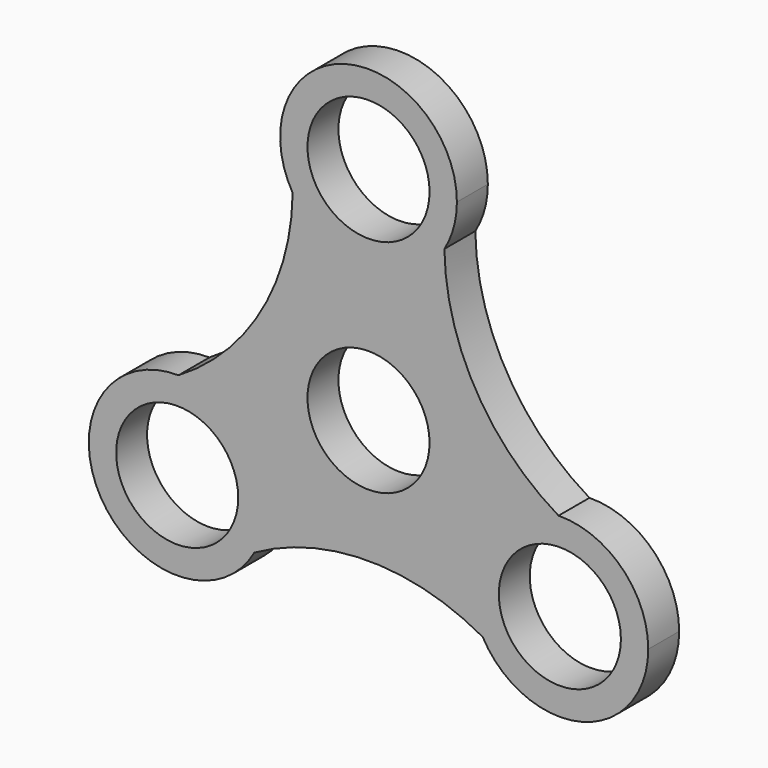
from build123d import *

# Parameters (mm, degrees)
F0_R     = 11.05
F1_DEPTH = 7


with BuildPart() as f1:
    # F0 (on Front) → F1 (new body)
    with BuildSketch(Plane.XZ):
        with BuildLine():
            ThreePointArc((-18.641016, -20), (-23.243086, -8.771145), (-34.401914, -4.001787))
            ThreePointArc((-34.401914, -4.001787), (-48.497423, -28), (-20.666606, -27.792039))
            ThreePointArc((-20.666606, -27.792039), (-19.155691, -24.025509), (-18.641016, -20))
        make_face()
        with Locations((-34.641016, -20)):
            Circle(F0_R, mode=Mode.SUBTRACT)
        with BuildLine():
            ThreePointArc((13.735308, 31.793825), (0, 24), (-13.735308, 31.793825))
            ThreePointArc((-13.735308, 31.793825), (-19.391728, 11.195819), (-34.401914, -4.001787))
            ThreePointArc((-34.401914, -4.001787), (-23.243086, -8.771145), (-18.641016, -20))
            ThreePointArc((-18.641016, -20), (-19.155691, -24.025509), (-20.666606, -27.792039))
            ThreePointArc((-20.666606, -27.792039), (0, -22.391639), (20.666606, -27.792039))
            ThreePointArc((20.666606, -27.792039), (20.78461, -12), (34.401914, -4.001787))
            ThreePointArc((34.401914, -4.001787), (19.391728, 11.195819), (13.735308, 31.793825))
        make_face()
        Circle(F0_R, mode=Mode.SUBTRACT)
        with BuildLine():
            ThreePointArc((13.735308, 31.793825), (15.423439, 35.74353), (16, 40))
            ThreePointArc((16, 40), (-4.25647, 55.423439), (-13.735308, 31.793825))
            ThreePointArc((-13.735308, 31.793825), (0, 24), (13.735308, 31.793825))
        make_face()
        with Locations((0, 40)):
            Circle(F0_R, mode=Mode.SUBTRACT)
        with BuildLine():
            ThreePointArc((50.641016, -20), (45.869871, -8.60207), (34.401914, -4.001787))
            ThreePointArc((34.401914, -4.001787), (20.78461, -12), (20.666606, -27.792039))
            ThreePointArc((20.666606, -27.792039), (38.666525, -35.485325), (50.641016, -20))
        make_face()
        with Locations((34.641016, -20)):
            Circle(F0_R, mode=Mode.SUBTRACT)
    extrude(amount=F1_DEPTH)


solid = f1.part
